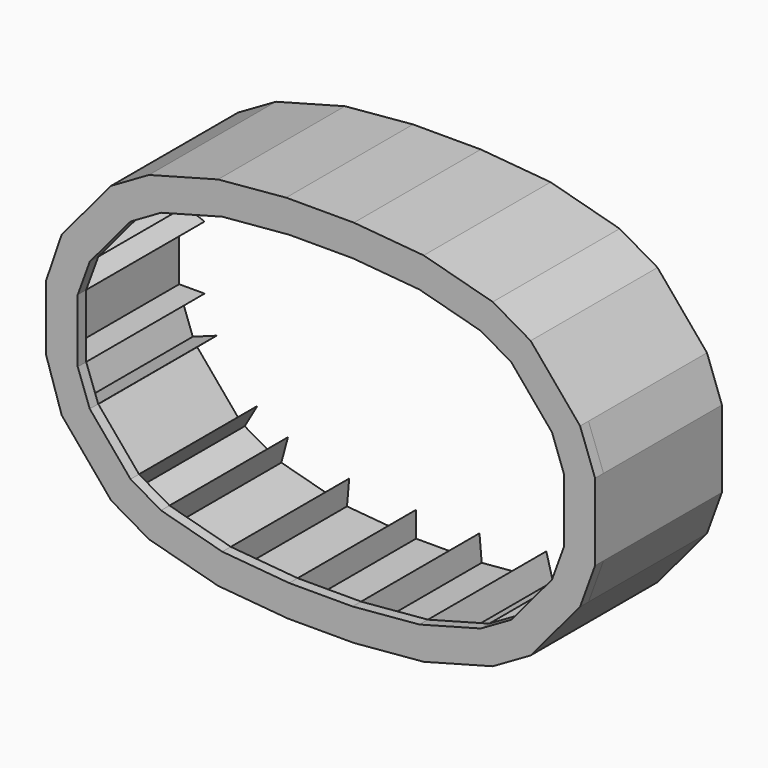
from build123d import *

# Parameters (mm, degrees)
PAD_DEPTH          = 70
PAD001_DEPTH       = 5
PAD001_FACE43_W    = 70
PAD001_FACE43_H    = 30
POCKET_DEPTH       = 12
POCKET_FACE41_W    = 70
POCKET_FACE41_H    = 31.7305168913
POCKET001_DEPTH    = 12
POCKET001_FACE44_W = 70
POCKET001_FACE44_H = 30
POCKET002_DEPTH    = 12
POCKET002_FACE47_W = 70
POCKET002_FACE47_H = 31.7305168913
POCKET003_DEPTH    = 12
POCKET003_FACE37_W = 70
POCKET003_FACE37_H = 16.6623057169
POCKET004_DEPTH    = 12
POCKET004_FACE36_W = 70
POCKET004_FACE36_H = 30
POCKET005_DEPTH    = 12
POCKET005_FACE35_W = 70
POCKET005_FACE35_H = 16.6623057169
POCKET006_DEPTH    = 12
POCKET006_FACE34_W = 70
POCKET006_FACE34_H = 30
POCKET007_DEPTH    = 12
POCKET007_FACE33_W = 70
POCKET007_FACE33_H = 16.6623057169
POCKET008_DEPTH    = 12
POCKET008_FACE60_W = 70
POCKET008_FACE60_H = 30
POCKET009_DEPTH    = 12
POCKET009_FACE63_W = 70
POCKET009_FACE63_H = 16.6623057169
POCKET010_DEPTH    = 12
POCKET010_FACE66_W = 70
POCKET010_FACE66_H = 30
POCKET011_DEPTH    = 12
POCKET011_FACE69_W = 70
POCKET011_FACE69_H = 16.6623057169
POCKET012_DEPTH    = 12
POCKET012_FACE72_W = 70
POCKET012_FACE72_H = 30
POCKET013_DEPTH    = 12
POCKET013_FACE75_W = 70
POCKET013_FACE75_H = 16.6623057169
POCKET014_DEPTH    = 12
POCKET014_FACE78_W = 70
POCKET014_FACE78_H = 30
POCKET015_DEPTH    = 12
POCKET015_FACE81_W = 70
POCKET015_FACE81_H = 16.6623057169
POCKET016_DEPTH    = 12
POCKET016_FACE84_W = 70
POCKET016_FACE84_H = 30
POCKET017_DEPTH    = 12
POCKET017_FACE87_W = 70
POCKET017_FACE87_H = 31.7305168913
POCKET018_DEPTH    = 12
POCKET018_FACE32_W = 70
POCKET018_FACE32_H = 30
POCKET019_DEPTH    = 12
POCKET019_FACE31_W = 70
POCKET019_FACE31_H = 16.6623057169
POCKET020_DEPTH    = 12
POCKET020_FACE30_W = 70
POCKET020_FACE30_H = 30
POCKET021_DEPTH    = 12
POCKET021_FACE29_W = 70
POCKET021_FACE29_H = 31.7305168913
POCKET022_DEPTH    = 12
POCKET022_FACE98_W = 70
POCKET022_FACE98_H = 30
POCKET023_DEPTH    = 12


with BuildPart() as part:
    # Sketch → Pad (new body)
    with BuildSketch(Plane.XZ):
        Polygon((15.6005336184, 87.4879738248), (-16.433599, 87.4879738248), (-48.6209968735, 84.5990576256), (-81.2780534486, 75.8486256891), (-99.1915759479, 65.506248652), (-122.5813887031, 37.6313552709), (-129.9657652325, 16.0128529043), (-129.9657652325, -14.874853), (-122.5813887031, -37.6313552709), (-99.1915759479, -65.506248652), (-81.2780534486, -75.8486256891), (-48.6209968735, -84.5990576256), (-15.6005336184, -87.4879738248), (15.6005336184, -87.4879738248), (48.6209968735, -84.5990576256), (81.2780534486, -75.8486256891), (99.1915759479, -65.506248652), (122.5813887031, -37.6313552709), (129.6559912563, -18.1940445045), (129.6559912563, 18.1940445045), (122.5813887031, 37.6313552709), (99.1915759479, 65.506248652), (81.2780534486, 75.8486256891), (48.6209968735, 84.5990576256), align=None)
        Polygon((-115, 15), (-115, -15), (-109.3011558106, -30.6574457275), (-90.01752752, -53.638779021), (-75.5875474835, -61.9699318795), (-46.6097726948, -69.7345032326), (-15, -72.5), (15, -72.5), (46.6097726948, -69.7345032326), (75.5875474835, -61.9699318795), (90.01752752, -53.638779021), (109.3011558106, -30.6574457275), (115, -15), (115, 15), (109.3011558106, 30.6574457275), (90.01752752, 53.638779021), (75.5875474835, 61.9699318795), (46.6097726948, 69.7345032326), (15, 72.5), (-15, 72.5), (-46.6097726948, 69.7345032326), (-75.5875474835, 61.9699318795), (-90.01752752, 53.638779021), (-109.3011558106, 30.6574457275), align=None, mode=Mode.SUBTRACT)
    extrude(amount=PAD_DEPTH)

    # Pad Face50 → Pad001 (add)
    with BuildSketch(Plane(origin=(0.0330089745, -70, 0.0202146999), x_dir=(-1, 0, 0), z_dir=(0, -1, 0))):
        Polygon((-15.5675246439, -87.4677591249), (16.4666079745, -87.4677591249), (48.654005848, -84.5788429257), (81.3110624231, -75.8284109892), (99.2245849224, -65.4860339521), (122.6143976776, -37.611140571), (129.998774207, -15.9926382044), (129.998774207, 14.8950676999), (122.6143976776, 37.6515699708), (99.2245849224, 65.5264633519), (81.3110624231, 75.868840389), (48.654005848, 84.6192723255), (15.633542593, 87.5081885247), (-15.5675246439, 87.5081885247), (-48.5879878989, 84.6192723255), (-81.2450444741, 75.868840389), (-99.1585669734, 65.5264633519), (-122.5483797286, 37.6515699708), (-129.6229822817, 18.2142592044), (-129.6229822817, -18.1738298046), (-122.5483797286, -37.611140571), (-99.1585669734, -65.4860339521), (-81.2450444741, -75.8284109892), (-48.5879878989, -84.5788429257), align=None)
        Polygon((15.0330089745, -72.4797853001), (-14.9669910255, -72.4797853001), (-46.5767637203, -69.7142885327), (-75.554538509, -61.9497171796), (-89.9845185454, -53.6185643211), (-109.268146836, -30.6372310276), (-114.9669910255, -14.9797853001), (-114.9669910255, 15.0202146999), (-109.268146836, 30.6776604274), (-89.9845185454, 53.6589937209), (-75.554538509, 61.9901465794), (-46.5767637203, 69.7547179325), (-14.9669910255, 72.5202146999), (15.0330089745, 72.5202146999), (46.6427816693, 69.7547179325), (75.620556458, 61.9901465794), (90.0505364945, 53.6589937209), (109.3341647851, 30.6776604274), (115.0330089745, 15.0202146999), (115.0330089745, -14.9797853001), (109.3341647851, -30.6372310276), (90.0505364945, -53.6185643211), (75.620556458, -61.9497171796), (46.6427816693, -69.7142885327), align=None, mode=Mode.SUBTRACT)
    extrude(amount=PAD001_DEPTH)

    # Pad001 Face43 → Pocket (cut)
    with BuildSketch(Plane(origin=(-61.0986600892, -35, -65.852217556), x_dir=(0, 1, 0), z_dir=(0.2588190451, 0, 0.9659258263))):
        Rectangle(PAD001_FACE43_W, PAD001_FACE43_H)
    extrude(amount=-POCKET_DEPTH, mode=Mode.SUBTRACT)

    # Pocket Face41 → Pocket001 (cut)
    with BuildSketch(Plane(origin=(-30.8048863474, -35, -71.1172516163), x_dir=(0, 1, 0), z_dir=(0.0871557427, 0, 0.9961946981))):
        Rectangle(POCKET_FACE41_W, POCKET_FACE41_H)
    extrude(amount=-POCKET001_DEPTH, mode=Mode.SUBTRACT)

    # Pocket001 Face44 → Pocket002 (cut)
    with BuildSketch(Plane(origin=(0, -35, -72.5), x_dir=(0, 1, 0), z_dir=(0, 0, 1))):
        Rectangle(POCKET001_FACE44_W, POCKET001_FACE44_H)
    extrude(amount=-POCKET002_DEPTH, mode=Mode.SUBTRACT)

    # Pocket002 Face47 → Pocket003 (cut)
    with BuildSketch(Plane(origin=(30.8048863474, -35, -71.1172516163), x_dir=(0, 1, 0), z_dir=(-0.0871557427, 0, 0.9961946981))):
        Rectangle(POCKET002_FACE47_W, POCKET002_FACE47_H)
    extrude(amount=-POCKET003_DEPTH, mode=Mode.SUBTRACT)

    # Pocket003 Face37 → Pocket004 (cut)
    with BuildSketch(Plane(origin=(-82.8025375017, -35, -57.8043554503), x_dir=(0, -1, 0), z_dir=(0.5, 0, 0.8660254038))):
        Rectangle(POCKET003_FACE37_W, POCKET003_FACE37_H)
    extrude(amount=-POCKET004_DEPTH, mode=Mode.SUBTRACT)

    # Pocket004 Face36 → Pocket005 (cut)
    with BuildSketch(Plane(origin=(-99.6593416653, -35, -42.1481123743), x_dir=(0, -1, 0), z_dir=(0.7660444431, 0, 0.6427876097))):
        Rectangle(POCKET004_FACE36_W, POCKET004_FACE36_H)
    extrude(amount=-POCKET005_DEPTH, mode=Mode.SUBTRACT)

    # Pocket005 Face35 → Pocket006 (cut)
    with BuildSketch(Plane(origin=(-112.1505779053, -35, -22.8287228637), x_dir=(0, -1, 0), z_dir=(0.9396926208, 0, 0.3420201433))):
        Rectangle(POCKET005_FACE35_W, POCKET005_FACE35_H)
    extrude(amount=-POCKET006_DEPTH, mode=Mode.SUBTRACT)

    # Pocket006 Face34 → Pocket007 (cut)
    with BuildSketch(Plane(origin=(-115, -35, 0), x_dir=(0, -1, 0), z_dir=(1, 0, 0))):
        Rectangle(POCKET006_FACE34_W, POCKET006_FACE34_H)
    extrude(amount=-POCKET007_DEPTH, mode=Mode.SUBTRACT)

    # Pocket007 Face33 → Pocket008 (cut)
    with BuildSketch(Plane(origin=(-112.1505779053, -35, 22.8287228637), x_dir=(0, -1, 0), z_dir=(0.9396926208, 0, -0.3420201433))):
        Rectangle(POCKET007_FACE33_W, POCKET007_FACE33_H)
    extrude(amount=-POCKET008_DEPTH, mode=Mode.SUBTRACT)

    # Pocket008 Face60 → Pocket009 (cut)
    with BuildSketch(Plane(origin=(61.0986600892, -35, -65.852217556), x_dir=(0, 1, 0), z_dir=(-0.2588190451, 0, 0.9659258263))):
        Rectangle(POCKET008_FACE60_W, POCKET008_FACE60_H)
    extrude(amount=-POCKET009_DEPTH, mode=Mode.SUBTRACT)

    # Pocket009 Face63 → Pocket010 (cut)
    with BuildSketch(Plane(origin=(82.8025375017, -35, -57.8043554503), x_dir=(0, 1, 0), z_dir=(-0.5, 0, 0.8660254038))):
        Rectangle(POCKET009_FACE63_W, POCKET009_FACE63_H)
    extrude(amount=-POCKET010_DEPTH, mode=Mode.SUBTRACT)

    # Pocket010 Face66 → Pocket011 (cut)
    with BuildSketch(Plane(origin=(99.6593416653, -35, -42.1481123743), x_dir=(0, 1, 0), z_dir=(-0.7660444431, 0, 0.6427876097))):
        Rectangle(POCKET010_FACE66_W, POCKET010_FACE66_H)
    extrude(amount=-POCKET011_DEPTH, mode=Mode.SUBTRACT)

    # Pocket011 Face69 → Pocket012 (cut)
    with BuildSketch(Plane(origin=(112.1505779053, -35, -22.8287228637), x_dir=(0, 1, 0), z_dir=(-0.9396926208, 0, 0.3420201433))):
        Rectangle(POCKET011_FACE69_W, POCKET011_FACE69_H)
    extrude(amount=-POCKET012_DEPTH, mode=Mode.SUBTRACT)

    # Pocket012 Face72 → Pocket013 (cut)
    with BuildSketch(Plane(origin=(115, -35, 0), x_dir=(0, 1, 0), z_dir=(-1, 0, 0))):
        Rectangle(POCKET012_FACE72_W, POCKET012_FACE72_H)
    extrude(amount=-POCKET013_DEPTH, mode=Mode.SUBTRACT)

    # Pocket013 Face75 → Pocket014 (cut)
    with BuildSketch(Plane(origin=(112.1505779053, -35, 22.8287228637), x_dir=(0, 1, 0), z_dir=(-0.9396926208, 0, -0.3420201433))):
        Rectangle(POCKET013_FACE75_W, POCKET013_FACE75_H)
    extrude(amount=-POCKET014_DEPTH, mode=Mode.SUBTRACT)

    # Pocket014 Face78 → Pocket015 (cut)
    with BuildSketch(Plane(origin=(99.6593416653, -35, 42.1481123743), x_dir=(0, 1, 0), z_dir=(-0.7660444431, 0, -0.6427876097))):
        Rectangle(POCKET014_FACE78_W, POCKET014_FACE78_H)
    extrude(amount=-POCKET015_DEPTH, mode=Mode.SUBTRACT)

    # Pocket015 Face81 → Pocket016 (cut)
    with BuildSketch(Plane(origin=(82.8025375017, -35, 57.8043554503), x_dir=(0, 1, 0), z_dir=(-0.5, 0, -0.8660254038))):
        Rectangle(POCKET015_FACE81_W, POCKET015_FACE81_H)
    extrude(amount=-POCKET016_DEPTH, mode=Mode.SUBTRACT)

    # Pocket016 Face84 → Pocket017 (cut)
    with BuildSketch(Plane(origin=(61.0986600892, -35, 65.852217556), x_dir=(0, -1, 0), z_dir=(-0.2588190451, 0, -0.9659258263))):
        Rectangle(POCKET016_FACE84_W, POCKET016_FACE84_H)
    extrude(amount=-POCKET017_DEPTH, mode=Mode.SUBTRACT)

    # Pocket017 Face87 → Pocket018 (cut)
    with BuildSketch(Plane(origin=(30.8048863474, -35, 71.1172516163), x_dir=(0, -1, 0), z_dir=(-0.0871557427, 0, -0.9961946981))):
        Rectangle(POCKET017_FACE87_W, POCKET017_FACE87_H)
    extrude(amount=-POCKET018_DEPTH, mode=Mode.SUBTRACT)

    # Pocket018 Face32 → Pocket019 (cut)
    with BuildSketch(Plane(origin=(-99.6593416653, -35, 42.1481123743), x_dir=(0, -1, 0), z_dir=(0.7660444431, 0, -0.6427876097))):
        Rectangle(POCKET018_FACE32_W, POCKET018_FACE32_H)
    extrude(amount=-POCKET019_DEPTH, mode=Mode.SUBTRACT)

    # Pocket019 Face31 → Pocket020 (cut)
    with BuildSketch(Plane(origin=(-82.8025375017, -35, 57.8043554503), x_dir=(0, -1, 0), z_dir=(0.5, 0, -0.8660254038))):
        Rectangle(POCKET019_FACE31_W, POCKET019_FACE31_H)
    extrude(amount=-POCKET020_DEPTH, mode=Mode.SUBTRACT)

    # Pocket020 Face30 → Pocket021 (cut)
    with BuildSketch(Plane(origin=(-61.0986600892, -35, 65.852217556), x_dir=(0, -1, 0), z_dir=(0.2588190451, 0, -0.9659258263))):
        Rectangle(POCKET020_FACE30_W, POCKET020_FACE30_H)
    extrude(amount=-POCKET021_DEPTH, mode=Mode.SUBTRACT)

    # Pocket021 Face29 → Pocket022 (cut)
    with BuildSketch(Plane(origin=(-30.8048863474, -35, 71.1172516163), x_dir=(0, -1, 0), z_dir=(0.0871557427, 0, -0.9961946981))):
        Rectangle(POCKET021_FACE29_W, POCKET021_FACE29_H)
    extrude(amount=-POCKET022_DEPTH, mode=Mode.SUBTRACT)

    # Pocket022 Face98 → Pocket023 (cut)
    with BuildSketch(Plane(origin=(0, -35, 72.5), x_dir=(0, -1, 0), z_dir=(0, 0, -1))):
        Rectangle(POCKET022_FACE98_W, POCKET022_FACE98_H)
    extrude(amount=-POCKET023_DEPTH, mode=Mode.SUBTRACT)


solid = part.part
